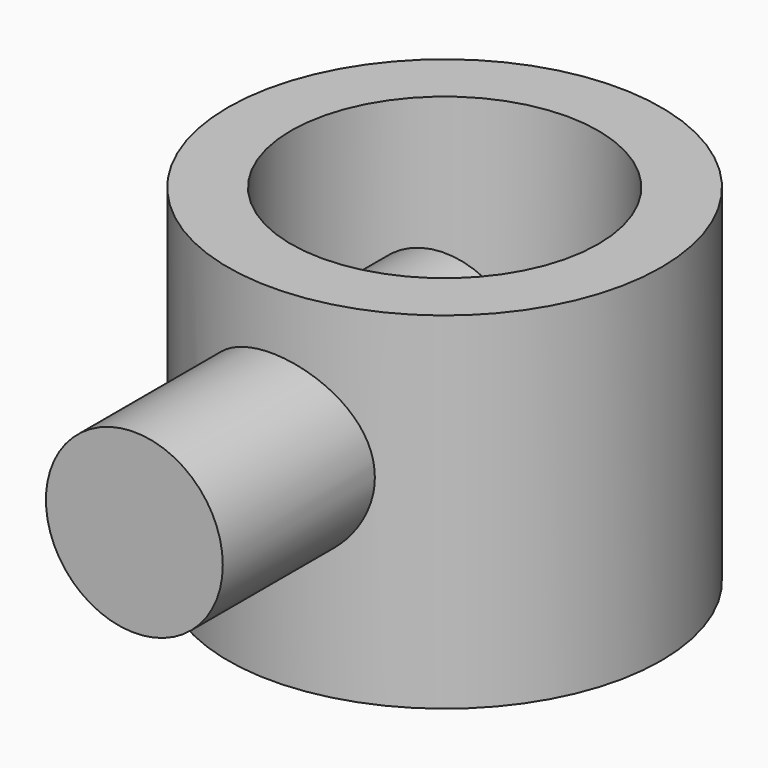
from build123d import *

# Parameters (mm, degrees)
F0_R     = 27.176097
F0_R_2   = 19.270273
F1_DEPTH = 43.42625
F2_R     = 11.093258
F3_DEPTH = 48.65313


with BuildPart() as f1:
    # F0 (on Top) → F1 (new body)
    with BuildSketch(Plane.XY):
        Circle(F0_R)
        Circle(F0_R_2, mode=Mode.SUBTRACT)
    extrude(amount=F1_DEPTH)

    # F2 (on Front) → F3 (join)
    with BuildSketch(Plane.XZ):
        with Locations((0, 25.101177)):
            Circle(F2_R)
    extrude(amount=F3_DEPTH)


solid = f1.part
